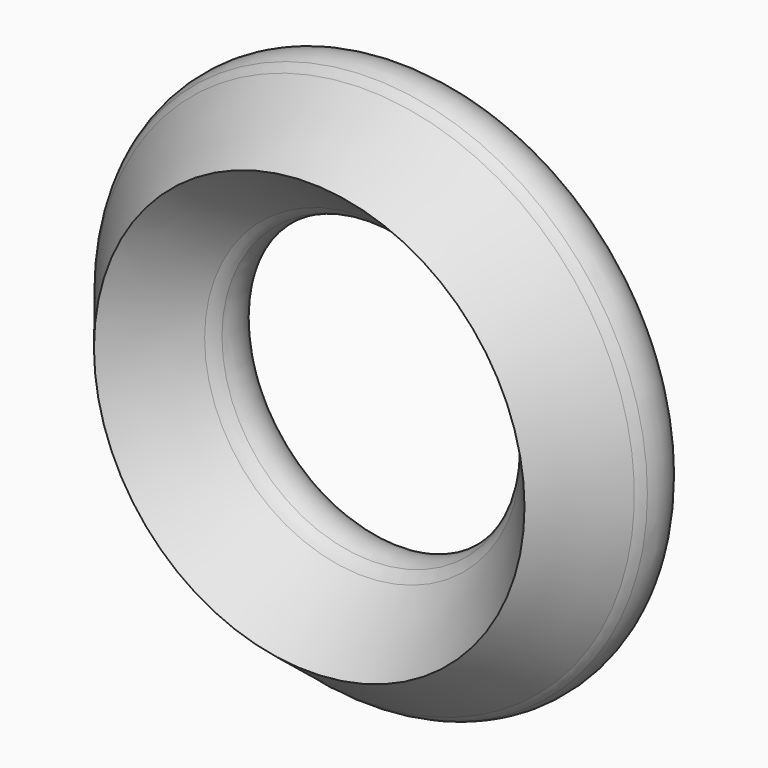
from build123d import *


with BuildPart() as f1:
    # F0 (on Top) → F1 (revolve)
    with BuildSketch(Plane.XY):
        with BuildLine():
            add(Edge.make_bspline(
                [(-33.8808472961, 29.4259511947), (-33.6551617935, 28.4610853864), (-33.1847360067, 26.4498894885), (-32.071559145, 28.407499373), (-31.4924258806, 29.4259511947)],
                knots=[0, 0, 0, 0, 0.4797473032, 1, 1, 1, 1], degree=3))
            ThreePointArc((-33.8808472961, 29.4259511947), (-46.0846625906, 32.9969695268), (-49.5825006356, 20.7719783741))
            Line((-49.5825006356, 20.7719783741), (-47.8437158368, 18.5641821888))
            Line((-47.8437158368, 18.5641821888), (-33.2232005894, 0))
            Line((-33.2232005894, 0), (-17.8961726294, 17.9612552238))
            Line((-17.8961726294, 17.9612552238), (-15.497674764, 20.7719783741))
            ThreePointArc((-15.497674764, 20.7719783741), (-19.1425395753, 33.1435158333), (-31.4924258806, 29.4259511947))
        make_face()
        with BuildLine():
            Line((-47.8437158368, 18.5641821888), (-49.5825006356, 20.7719783741))
            ThreePointArc((-49.5825006356, 20.7719783741), (-48.8001624289, 19.5995193754), (-47.8437158368, 18.5641821888))
        make_face()
        with BuildLine():
            ThreePointArc((-17.8961726294, 17.9612552238), (-16.5526508728, 19.243503265), (-15.497674764, 20.7719783741))
            Line((-15.497674764, 20.7719783741), (-17.8961726294, 17.9612552238))
        make_face()
    revolve(axis=Axis((24.538429454, -0.785227865, 0), (0, -1, 0)))


solid = f1.part
